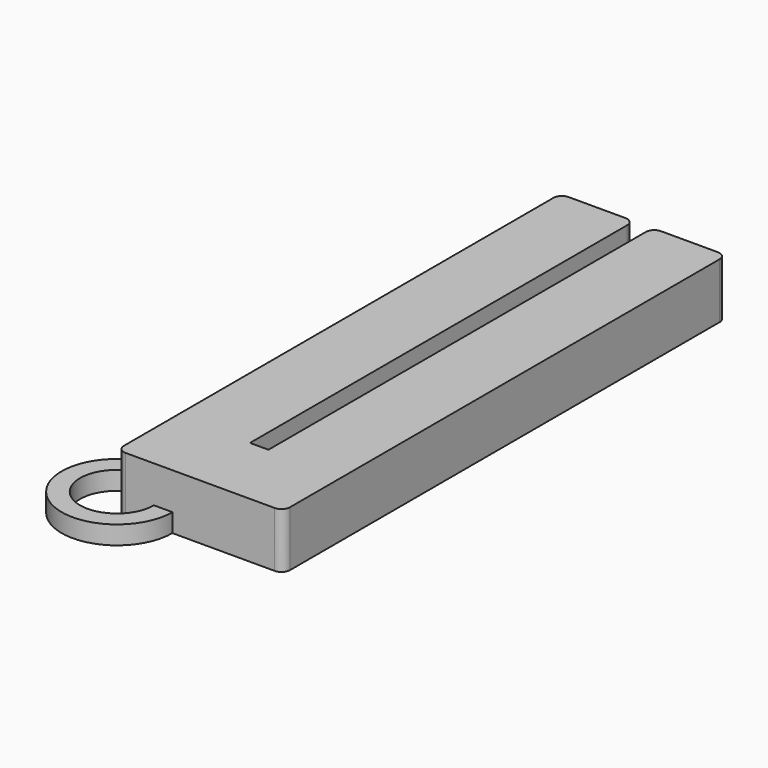
from build123d import *

# Parameters (mm, degrees)
F1_DEPTH = 3
F2_R     = 3
F2_R_2   = 2
F3_DEPTH = 1


with BuildPart() as f1:
    # F0 (on Top) → F1 (new body)
    with BuildSketch(Plane.XY):
        with BuildLine():
            ThreePointArc((0.465547, 30), (0.136355, 29.863645), (0, 29.534453))
            Line((0, 29.534453), (0, 0.465547))
            ThreePointArc((0, 0.465547), (0.136355, 0.136355), (0.465547, 0))
            Line((0.465547, 0), (8.534453, 0))
            ThreePointArc((8.534453, 0), (8.863645, 0.136355), (9, 0.465547))
            Line((9, 0.465547), (9, 29.534453))
            ThreePointArc((9, 29.534453), (8.863645, 29.863645), (8.534453, 30))
            Line((8.534453, 30), (5.465547, 30))
            ThreePointArc((5.465547, 30), (5.136355, 29.863645), (5, 29.534453))
            Line((5, 29.534453), (5, 4))
            Line((5, 4), (4, 4))
            Line((4, 4), (4, 29.534453))
            ThreePointArc((4, 29.534453), (3.863645, 29.863645), (3.534453, 30))
            Line((3.534453, 30), (0.465547, 30))
        make_face()
    extrude(amount=F1_DEPTH)


with BuildPart() as f3:
    # F2 (on Top) → F3 (new body)
    with BuildSketch(Plane.XY):
        Circle(F2_R)
        Circle(F2_R_2, mode=Mode.SUBTRACT)
    extrude(amount=F3_DEPTH)


solid = Compound([f1.part, f3.part])
